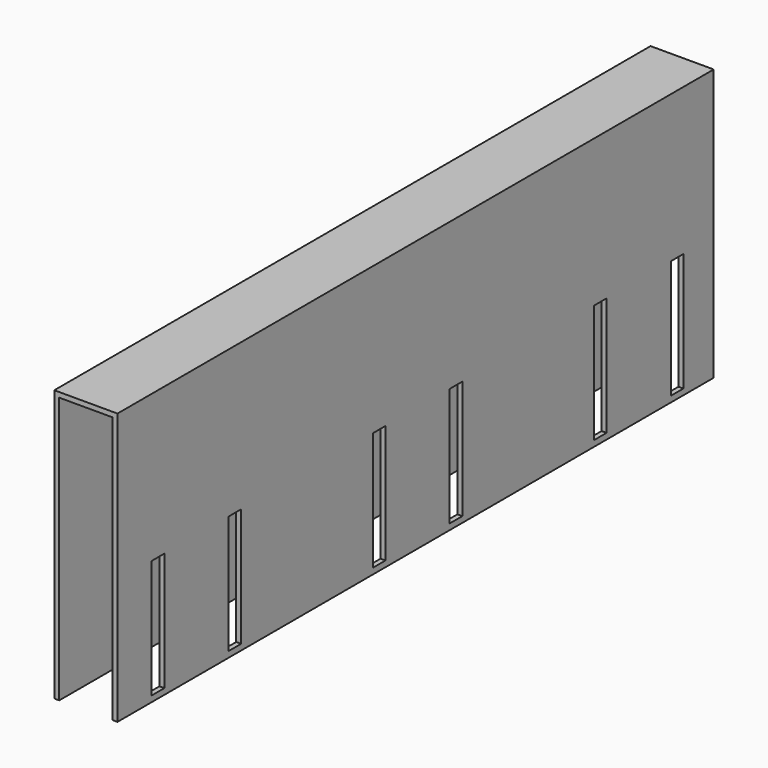
from build123d import *

# Parameters (mm, degrees)
F0_W     = 380
F0_H     = 140
F1_DEPTH = 32
F2_T     = -2.5
F3_DEPTH = 2.5
F4_DEPTH = 2.5
F5_W     = 8
F5_H     = 60
F6_DEPTH = 2.5


with BuildPart() as f1:
    # F0 (on Right) → F1 (new body)
    with BuildSketch(Plane.YZ):
        Rectangle(F0_W, F0_H)
    extrude(amount=F1_DEPTH)

    # F2
    f2_openings = [f1.faces().sort_by_distance(p)[0] for p in [
        (16, -190, 0),
    ]]
    offset(amount=F2_T, openings=f2_openings)

    # F3 (cut): a face of the model
    f3_faces = [f1.faces().sort_by_distance(p)[0] for p in [
        (16, 0, -70),
    ]]
    extrude(f3_faces, amount=-F3_DEPTH, mode=Mode.SUBTRACT)

    # F4 (cut): a face of the model
    f4_faces = [f1.faces().sort_by_distance(p)[0] for p in [
        (16, 190, 1.25),
    ]]
    extrude(f4_faces, amount=-F4_DEPTH, mode=Mode.SUBTRACT)

    # F5 (on face) → F6 (cut, through all)
    with BuildSketch(Plane.YZ.offset(32)):
        with Locations((-164.3113616109, -34.5)):
            Rectangle(F5_W, F5_H)
        with Locations((-115.6886383891, -34.5)):
            Rectangle(F5_W, F5_H)
        with Locations((24.3113616109, -34.5)):
            Rectangle(F5_W, F5_H)
        with Locations((-24.3113616109, -34.5)):
            Rectangle(F5_W, F5_H)
        with Locations((164.3113616109, -34.5)):
            Rectangle(F5_W, F5_H)
        with Locations((115.6886383891, -34.5)):
            Rectangle(F5_W, F5_H)
    extrude(amount=-F6_DEPTH, mode=Mode.SUBTRACT)


solid = f1.part
